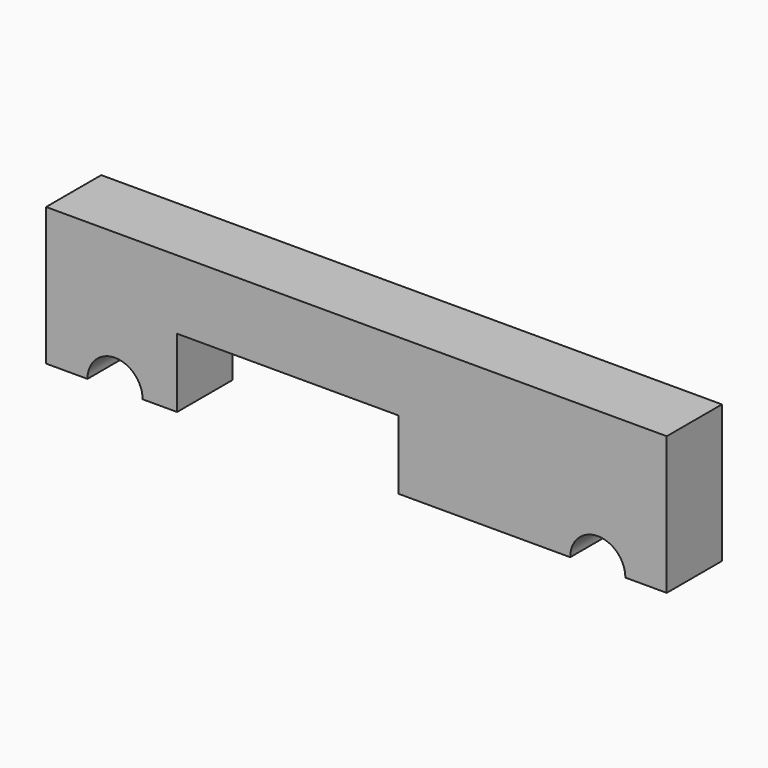
from build123d import *

# Parameters (mm, degrees)
F1_DEPTH = 10


with BuildPart() as f1:
    # F0 (on Front) → F1 (new body)
    with BuildSketch(Plane.XZ):
        with BuildLine():
            ThreePointArc((-37.644739, -19.448335), (-33.644739, -15.448335), (-29.644739, -19.448335))
            Line((-29.644739, -19.448335), (-24.644739, -19.448335))
            Line((-24.644739, -19.448335), (-24.644739, -9.448335))
            Line((-24.644739, -9.448335), (7.460523, -9.448335))
            Line((7.460523, -9.448335), (7.460523, -19.448335))
            Line((7.460523, -19.448335), (32.355261, -19.448335))
            ThreePointArc((32.355261, -19.448335), (36.355261, -15.448335), (40.355261, -19.448335))
            Line((40.355261, -19.448335), (46.355261, -19.448335))
            Line((46.355261, -19.448335), (46.355261, 0.551665))
            Line((46.355261, 0.551665), (-43.644739, 0.551665))
            Line((-43.644739, 0.551665), (-43.644739, -19.448335))
            Line((-43.644739, -19.448335), (-37.644739, -19.448335))
        make_face()
    extrude(amount=F1_DEPTH)


solid = f1.part
